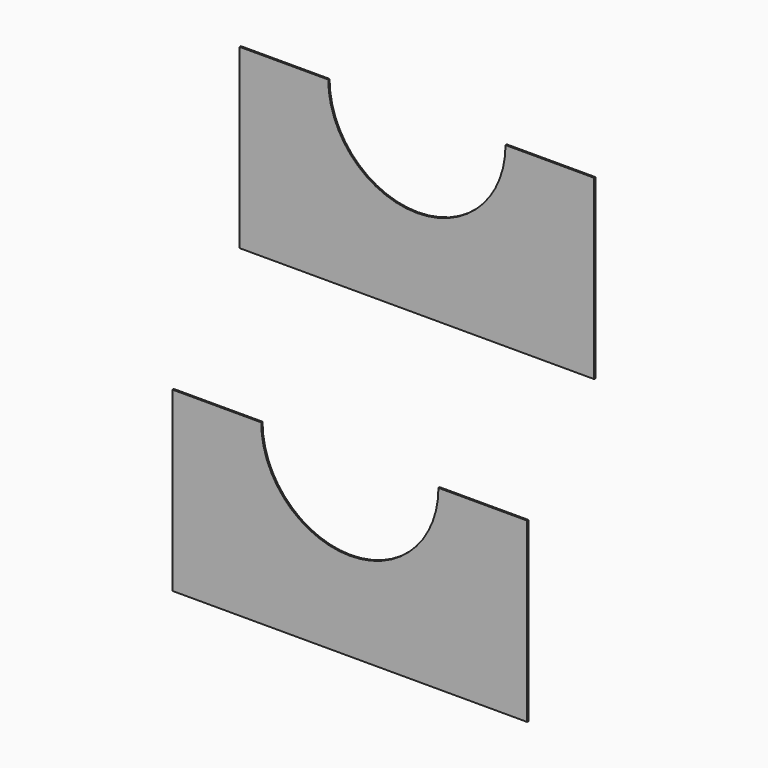
from build123d import *

# Parameters (mm, degrees)
F1_DEPTH = 3.175
F1_TAPER = -3
F2_DEPTH = 3.175


with BuildPart() as f1:
    # F0 (on Front) → F1 (new body)
    with BuildSketch(Plane.XZ):
        with BuildLine():
            ThreePointArc((144.1728167931, 505.1773030703), (9.4689749771, 560.9734612542), (-46.3271832069, 695.6773030703))
            Line((-46.3271832069, 695.6773030703), (-236.8271832069, 695.6773030703))
            Line((-236.8271832069, 695.6773030703), (-236.8271832069, 314.6773030703))
            Line((-236.8271832069, 314.6773030703), (144.1728167931, 314.6773030703))
            Line((144.1728167931, 314.6773030703), (525.1728167931, 314.6773030703))
            Line((525.1728167931, 314.6773030703), (525.1728167931, 695.6773030703))
            Line((525.1728167931, 695.6773030703), (334.6728167931, 695.6773030703))
            ThreePointArc((334.6728167931, 695.6773030703), (278.8766586092, 560.9734612542), (144.1728167931, 505.1773030703))
        make_face()
    extrude(amount=-F1_DEPTH, taper=F1_TAPER)


with BuildPart() as f1b:
    # F0 (on Front) → F1, piece 2 (new body)
    with BuildSketch(Plane.XZ):
        with BuildLine():
            ThreePointArc((0, -190.5), (-134.703841816, -134.703841816), (-190.5, 0))
            Line((-190.5, 0), (-381, 0))
            Line((-381, 0), (-381, -381))
            Line((-381, -381), (0, -381))
            Line((0, -381), (381, -381))
            Line((381, -381), (381, 0))
            Line((381, 0), (190.5, 0))
            ThreePointArc((190.5, 0), (134.703841816, -134.703841816), (0, -190.5))
        make_face()
    extrude(amount=-F1_DEPTH, taper=F1_TAPER)

    # F0 (on Front) → F2 (join)
    with BuildSketch(Plane.XZ):
        with BuildLine():
            ThreePointArc((0, -190.5), (-134.703841816, -134.703841816), (-190.5, 0))
            Line((-190.5, 0), (-381, 0))
            Line((-381, 0), (-381, -381))
            Line((-381, -381), (0, -381))
            Line((0, -381), (381, -381))
            Line((381, -381), (381, 0))
            Line((381, 0), (190.5, 0))
            ThreePointArc((190.5, 0), (134.703841816, -134.703841816), (0, -190.5))
        make_face()
    extrude(amount=-F2_DEPTH)


solid = Compound([f1.part, f1b.part])
